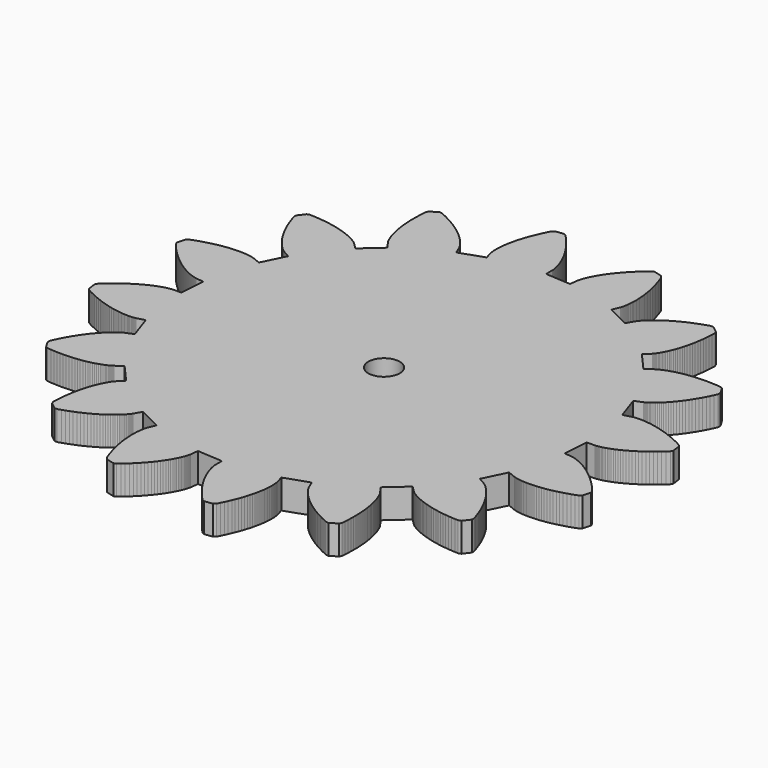
from build123d import *

# Parameters (mm, degrees)
F0_R     = 3.517577
F1_DEPTH = 6.5


with BuildPart() as f1:
    # F0 (on Top) → F1 (new body)
    with BuildSketch(Plane.XY):
        Polygon((44.958305, -5.634939), (45.310095, 5.1e-05), (47.156675, 5.1e-05), (47.185377, 0.001575), (47.236177, 0.004369), (47.310853, 0.008179), (47.407373, 0.018085), (47.524467, 0.031801), (47.664929, 0.051105), (47.826219, 0.077267), (48.009607, 0.110541), (48.214839, 0.153213), (48.439629, 0.204013), (48.686263, 0.265989), (48.952201, 0.339141), (49.237189, 0.424485), (49.543513, 0.523545), (49.866855, 0.636829), (50.210263, 0.763575), (50.571451, 0.906577), (50.950419, 1.066597), (51.344373, 1.242873), (51.756361, 1.438707), (52.183589, 1.652575), (52.626057, 1.886763), (53.083511, 2.141525), (53.553411, 2.417369), (54.037027, 2.714803), (54.533089, 3.035605), (55.040327, 3.379013), (55.556963, 3.746805), (56.084775, 4.139489), (56.622239, 4.555795), (57.166561, 4.999533), (57.719011, 5.469433), (58.277303, 5.965495), (58.840929, 6.489497), (59.117789, 7.005879), (58.862773, 8.899703), (58.459167, 9.325407), (57.776923, 9.680499), (57.105855, 10.011461), (56.450027, 10.318801), (55.806391, 10.601249), (55.177995, 10.861853), (54.566363, 11.100105), (53.969463, 11.317783), (53.389327, 11.515141), (52.825701, 11.692941), (52.281379, 11.851183), (51.755091, 11.993169), (51.246583, 12.117375), (50.758649, 12.225833), (50.290273, 12.319813), (49.840947, 12.398553), (49.412195, 12.464339), (49.005795, 12.517933), (48.619969, 12.560605), (48.256241, 12.592355), (47.912833, 12.615977), (47.591777, 12.629947), (47.294597, 12.636551), (47.017229, 12.636551), (46.763991, 12.631217), (46.533613, 12.621311), (46.325333, 12.607595), (46.139405, 12.591085), (45.976845, 12.573305), (45.836383, 12.555525), (45.719289, 12.537491), (45.624039, 12.520727), (45.551141, 12.505741), (45.501357, 12.494819), (45.472401, 12.487707), (43.692369, 12.000027), (41.860775, 17.339869), (43.566639, 18.045227), (43.592801, 18.057927), (43.639791, 18.080025), (43.706085, 18.113045), (43.791429, 18.158511), (43.894807, 18.216423), (44.017235, 18.288051), (44.156427, 18.373395), (44.313653, 18.475503), (44.486119, 18.592597), (44.674841, 18.726201), (44.877279, 18.877839), (45.094957, 19.047257), (45.326351, 19.234455), (45.571969, 19.442735), (45.828001, 19.671589), (46.096733, 19.919747), (46.375117, 20.191019), (46.663153, 20.483373), (46.960841, 20.797317), (47.266657, 21.134883), (47.579585, 21.497595), (47.897847, 21.881897), (48.222967, 22.292361), (48.552405, 22.726701), (48.884383, 23.187203), (49.219663, 23.673105), (49.557229, 24.184661), (49.894795, 24.722125), (50.232361, 25.287275), (50.568657, 25.878079), (50.901905, 26.495299), (51.232867, 27.140713), (51.557733, 27.813051), (51.879297, 28.513075), (51.936955, 29.096005), (50.976327, 30.748275), (50.440133, 30.986527), (49.674323, 31.054091), (48.928579, 31.103875), (48.203917, 31.135625), (47.502369, 31.150611), (46.821649, 31.150611), (46.164297, 31.136895), (45.530567, 31.109463), (44.918427, 31.069077), (44.330163, 31.018277), (43.766791, 30.956301), (43.226279, 30.886197), (42.708373, 30.805933), (42.216375, 30.719319), (41.747745, 30.626863), (41.302483, 30.527803), (40.881097, 30.425695), (40.485619, 30.319523), (40.111985, 30.210811), (39.763497, 30.100575), (39.438123, 29.990339), (39.136625, 29.881373), (38.857733, 29.772661), (38.603225, 29.668013), (38.371577, 29.565905), (38.162027, 29.467861), (37.974829, 29.375913), (37.809475, 29.290061), (37.666219, 29.211829), (37.543283, 29.140201), (37.441429, 29.079495), (37.359895, 29.026917), (37.298173, 28.985769), (37.255247, 28.956813), (37.231879, 28.938779), (35.773919, 27.805939), (32.039357, 32.039357), (33.344663, 33.344663), (33.364983, 33.366507), (33.399527, 33.403845), (33.448041, 33.460233), (33.508239, 33.534655), (33.582661, 33.628127), (33.668513, 33.740141), (33.764779, 33.873745), (33.869427, 34.026653), (33.985251, 34.201405), (34.107933, 34.397239), (34.237473, 34.614917), (34.374125, 34.854947), (34.515857, 35.116567), (34.661907, 35.403079), (34.812275, 35.711689), (34.964929, 36.044175), (35.118091, 36.401045), (35.272269, 36.781283), (35.426701, 37.184889), (35.579355, 37.614911), (35.731247, 38.068301), (35.878567, 38.546583), (36.020553, 39.049503), (36.158475, 39.577569), (36.290555, 40.130019), (36.413491, 40.706091), (36.529061, 41.308325), (36.635233, 41.933673), (36.731753, 42.584167), (36.815573, 43.259553), (36.887455, 43.958053), (36.946383, 44.680175), (36.989563, 45.427189), (37.018519, 46.196047), (36.848847, 46.756879), (35.328911, 47.914357), (34.742933, 47.930867), (34.008619, 47.699473), (33.301483, 47.459697), (32.619747, 47.211539), (31.964935, 46.958047), (31.336539, 46.697697), (30.734305, 46.433029), (30.159757, 46.164297), (29.610101, 45.894295), (29.086353, 45.621245), (28.588767, 45.348449), (28.116073, 45.076923), (27.668525, 44.805651), (27.246377, 44.536919), (26.848105, 44.270727), (26.476249, 44.010377), (26.126491, 43.754091), (25.801117, 43.504663), (25.497841, 43.260823), (25.216663, 43.026635), (24.959107, 42.800575), (24.722125, 42.582897), (24.507241, 42.377411), (24.311407, 42.181577), (24.136401, 41.998697), (23.979429, 41.829025), (23.841507, 41.672053), (23.721619, 41.528797), (23.619511, 41.401797), (23.532897, 41.288767), (23.462539, 41.194025), (23.407675, 41.115285), (23.366019, 41.053055), (23.338333, 41.009113), (23.323347, 40.984475), (22.409455, 39.380211), (17.339869, 41.860775), (18.045227, 43.566639), (18.056657, 43.594325), (18.072913, 43.642585), (18.096535, 43.712689), (18.125491, 43.805145), (18.157241, 43.919445), (18.192801, 44.056097), (18.231663, 44.215863), (18.270017, 44.397727), (18.309895, 44.603213), (18.348757, 44.830289), (18.385841, 45.081241), (18.418861, 45.355307), (18.449341, 45.652995), (18.475503, 45.972527), (18.496077, 46.314411), (18.510047, 46.680933), (18.515127, 47.068283), (18.512841, 47.479001), (18.500141, 47.912833), (18.476773, 48.367747), (18.442229, 48.844505), (18.395747, 49.342091), (18.336311, 49.861775), (18.260619, 50.401779), (18.170957, 50.962611), (18.064785, 51.542747), (17.940579, 52.143711), (17.798847, 52.762455), (17.638827, 53.400503), (17.458233, 54.055061), (17.257319, 54.728923), (17.035323, 55.418025), (16.790213, 56.124907), (16.522751, 56.845505), (16.150641, 57.298895), (14.302791, 57.788099), (13.755675, 57.577279), (13.165633, 57.084011), (12.603785, 56.590489), (12.070385, 56.101285), (11.561623, 55.616145), (11.080801, 55.135323), (10.626141, 54.659835), (10.197389, 54.192729), (9.792513, 53.731211), (9.413545, 53.279091), (9.057945, 52.836623), (8.725713, 52.404061), (8.415579, 51.983691), (8.129067, 51.572973), (7.863129, 51.176225), (7.618019, 50.791923), (7.393229, 50.421083), (7.187997, 50.065483), (7.002069, 49.725123), (6.832397, 49.401273), (6.681013, 49.093933), (6.544361, 48.803357), (6.424473, 48.529291), (6.318301, 48.274275), (6.225845, 48.038563), (6.147613, 47.820885), (6.079795, 47.623527), (6.023407, 47.445727), (5.977941, 47.288755), (5.940857, 47.152357), (5.913425, 47.036533), (5.892597, 46.942807), (5.877357, 46.869655), (5.869229, 46.818855), (5.863641, 46.789899), (5.635041, 44.958305), (5.1e-05, 45.310095), (5.1e-05, 47.156675), (-0.001473, 47.185377), (-0.004267, 47.236177), (-0.008077, 47.310853), (-0.017983, 47.407373), (-0.031699, 47.524467), (-0.051003, 47.664929), (-0.077165, 47.826219), (-0.109931, 48.009607), (-0.153111, 48.214839), (-0.203911, 48.439629), (-0.265887, 48.686263), (-0.339039, 48.952201), (-0.424383, 49.237189), (-0.523443, 49.543513), (-0.636727, 49.866855), (-0.763473, 50.210263), (-0.906475, 50.571451), (-1.066495, 50.950419), (-1.242771, 51.344373), (-1.438605, 51.756361), (-1.652473, 52.183589), (-1.886661, 52.626057), (-2.141423, 53.083511), (-2.417267, 53.553411), (-2.714701, 54.037027), (-3.035503, 54.533089), (-3.378911, 55.040327), (-3.746703, 55.556963), (-4.139387, 56.084775), (-4.555693, 56.622239), (-4.999431, 57.166561), (-5.469331, 57.719011), (-5.965393, 58.277303), (-6.489395, 58.840929), (-7.005777, 59.117789), (-8.899601, 58.862773), (-9.325305, 58.459167), (-9.680397, 57.776923), (-10.011359, 57.105855), (-10.318699, 56.450027), (-10.601147, 55.806391), (-10.861751, 55.177995), (-11.100003, 54.566363), (-11.317681, 53.969463), (-11.515039, 53.389327), (-11.692839, 52.825701), (-11.851081, 52.281379), (-11.993067, 51.755091), (-12.117273, 51.246583), (-12.225731, 50.758649), (-12.319711, 50.290273), (-12.398451, 49.840947), (-12.464237, 49.412195), (-12.517831, 49.005795), (-12.560503, 48.619969), (-12.592253, 48.256241), (-12.615875, 47.912833), (-12.629845, 47.591777), (-12.636449, 47.294597), (-12.636449, 47.017229), (-12.631115, 46.763991), (-12.621209, 46.533613), (-12.607493, 46.325333), (-12.590983, 46.139405), (-12.573203, 45.976845), (-12.555423, 45.836383), (-12.537389, 45.719289), (-12.520625, 45.624039), (-12.505639, 45.551141), (-12.494717, 45.501357), (-12.487605, 45.472401), (-11.999925, 43.692369), (-17.339767, 41.860775), (-18.045125, 43.566639), (-18.057571, 43.592801), (-18.079923, 43.639791), (-18.112943, 43.706085), (-18.158409, 43.791429), (-18.216321, 43.894807), (-18.287949, 44.017235), (-18.373293, 44.156427), (-18.475401, 44.313653), (-18.592495, 44.486119), (-18.726099, 44.674841), (-18.877737, 44.877279), (-19.047155, 45.094957), (-19.234353, 45.326351), (-19.442633, 45.571969), (-19.671487, 45.828001), (-19.919645, 46.096733), (-20.190917, 46.375117), (-20.483017, 46.663153), (-20.797215, 46.960841), (-21.134781, 47.266657), (-21.497239, 47.579585), (-21.881795, 47.897847), (-22.292259, 48.222967), (-22.726599, 48.552405), (-23.186847, 48.884383), (-23.673003, 49.219663), (-24.184559, 49.557229), (-24.722023, 49.894795), (-25.286919, 50.232361), (-25.878231, 50.568657), (-26.495451, 50.901905), (-27.140357, 51.232867), (-27.812949, 51.557733), (-28.512973, 51.879297), (-29.095903, 51.936955), (-30.748173, 50.976327), (-30.986425, 50.440133), (-31.053989, 49.674323), (-31.103773, 48.928579), (-31.135269, 48.203917), (-31.150509, 47.502369), (-31.150509, 46.821649), (-31.136793, 46.164297), (-31.109107, 45.530567), (-31.069229, 44.918427), (-31.018175, 44.330163), (-30.956199, 43.766791), (-30.885841, 43.226279), (-30.806085, 42.708373), (-30.719217, 42.216375), (-30.626761, 41.747745), (-30.527701, 41.302483), (-30.425593, 40.881097), (-30.319421, 40.485619), (-30.210709, 40.111985), (-30.100473, 39.763497), (-29.990237, 39.438123), (-29.881271, 39.136625), (-29.772559, 38.857733), (-29.667657, 38.603225), (-29.565803, 38.371577), (-29.468013, 38.162027), (-29.375557, 37.974829), (-29.290213, 37.809475), (-29.211727, 37.666219), (-29.139845, 37.543283), (-29.079393, 37.441429), (-29.026815, 37.359895), (-28.985667, 37.298173), (-28.956711, 37.255247), (-28.938677, 37.231879), (-27.806091, 35.773919), (-32.039255, 32.039357), (-33.344307, 33.344663), (-33.366405, 33.364983), (-33.403489, 33.399527), (-33.460131, 33.448041), (-33.534553, 33.508239), (-33.628279, 33.582661), (-33.739785, 33.668513), (-33.873389, 33.764779), (-34.026551, 33.869427), (-34.201481, 33.985251), (-34.397163, 34.107933), (-34.614891, 34.237473), (-34.854667, 34.374125), (-35.116516, 34.515857), (-35.40313, 34.661907), (-35.711816, 34.812275), (-36.043921, 34.964929), (-36.400842, 35.118091), (-36.781156, 35.272269), (-37.184914, 35.426701), (-37.614885, 35.579355), (-38.068275, 35.731247), (-38.54643, 35.878567), (-39.049427, 36.020553), (-39.577213, 36.158475), (-40.12979, 36.290555), (-40.705811, 36.413491), (-41.307995, 36.529061), (-41.933647, 36.635233), (-42.584065, 36.731753), (-43.259324, 36.815573), (-43.958002, 36.887455), (-44.680073, 36.946383), (-45.42696, 36.989563), (-46.19592, 37.018519), (-46.756803, 36.848847), (-47.914331, 35.328911), (-47.930867, 34.742933), (-47.699346, 34.008619), (-47.45957, 33.301483), (-47.211539, 32.619747), (-46.957996, 31.964935), (-46.697544, 31.336539), (-46.432953, 30.734305), (-46.164246, 30.159757), (-45.894117, 29.610101), (-45.62127, 29.086353), (-45.348449, 28.588767), (-45.076948, 28.116073), (-44.805473, 27.668525), (-44.536766, 27.246377), (-44.270803, 26.848105), (-44.010351, 26.476249), (-43.754015, 26.126491), (-43.504612, 25.801117), (-43.260696, 25.497841), (-43.026432, 25.216663), (-42.800422, 24.959107), (-42.582694, 24.722125), (-42.377385, 24.507241), (-42.181704, 24.311407), (-41.998417, 24.136401), (-41.828923, 23.979429), (-41.671824, 23.841507), (-41.528492, 23.721619), (-41.401746, 23.619511), (-41.288741, 23.532897), (-41.193644, 23.462539), (-41.115107, 23.407675), (-41.05308, 23.366019), (-41.008986, 23.338333), (-40.984195, 23.323347), (-39.380135, 22.409455), (-41.860622, 17.339869), (-43.566639, 18.045227), (-43.594172, 18.056657), (-43.642407, 18.072913), (-43.712714, 18.096535), (-43.805043, 18.125491), (-43.919419, 18.157241), (-44.055817, 18.192801), (-44.21566, 18.231663), (-44.3976, 18.270017), (-44.602908, 18.309895), (-44.830289, 18.348757), (-45.081114, 18.385841), (-45.355307, 18.418861), (-45.652995, 18.449341), (-45.972679, 18.475503), (-46.314462, 18.496077), (-46.680984, 18.510047), (-47.068232, 18.515127), (-47.478874, 18.512841), (-47.91296, 18.500141), (-48.367721, 18.476773), (-48.844505, 18.442229), (-49.341989, 18.395747), (-49.861495, 18.336311), (-50.401703, 18.260619), (-50.962535, 18.170957), (-51.542721, 18.064785), (-52.143533, 17.940579), (-52.762277, 17.798847), (-53.4003, 17.638827), (-54.054883, 17.458233), (-54.72872, 17.257319), (-55.417745, 17.035323), (-56.124678, 16.790213), (-56.845403, 16.522751), (-57.298768, 16.150641), (-57.787972, 14.302791), (-57.577152, 13.755675), (-57.083808, 13.165633), (-56.590463, 12.603785), (-56.101259, 12.070385), (-55.61617, 11.561623), (-55.135272, 11.080801), (-54.659835, 10.626141), (-54.192678, 10.197389), (-53.731033, 9.792513), (-53.279015, 9.413545), (-52.836674, 9.057945), (-52.403985, 8.725713), (-51.983691, 8.415579), (-51.573024, 8.129067), (-51.176149, 7.863129), (-50.791694, 7.618019), (-50.421007, 7.393229), (-50.065457, 7.187997), (-49.725072, 7.002069), (-49.401247, 6.832397), (-49.093958, 6.681013), (-48.803154, 6.544361), (-48.528935, 6.424473), (-48.273995, 6.318301), (-48.03836, 6.225845), (-47.820631, 6.147613), (-47.623578, 6.079795), (-47.445803, 6.023407), (-47.288729, 5.977941), (-47.152306, 5.940857), (-47.036507, 5.913425), (-46.942807, 5.892597), (-46.869782, 5.877357), (-46.818779, 5.869229), (-46.789848, 5.863641), (-44.958432, 5.635041), (-45.309841, 5.1e-05), (-47.156421, 5.1e-05), (-47.185351, -0.001473), (-47.236329, -0.004267), (-47.310777, -0.008077), (-47.40722, -0.017983), (-47.52434, -0.031699), (-47.664929, -0.051003), (-47.826143, -0.077165), (-48.009404, -0.109931), (-48.214763, -0.153111), (-48.439375, -0.203911), (-48.686034, -0.265887), (-48.951998, -0.339039), (-49.23724, -0.424383), (-49.543183, -0.523443), (-49.867033, -0.636727), (-50.210136, -0.763473), (-50.571197, -0.906475), (-50.950165, -1.066495), (-51.344297, -1.242771), (-51.756285, -1.438605), (-52.183513, -1.652473), (-52.625854, -1.886661), (-53.083384, -2.141423), (-53.553284, -2.417267), (-54.036976, -2.714701), (-54.533038, -3.035503), (-55.040149, -3.378911), (-55.556937, -3.746703), (-56.084724, -4.139387), (-56.622163, -4.555693), (-57.166485, -4.999431), (-57.719087, -5.469331), (-58.277176, -5.965393), (-58.840802, -6.489395), (-59.117789, -7.005777), (-58.862849, -8.899601), (-58.459091, -9.325305), (-57.776948, -9.680397), (-57.105855, -10.011359), (-56.4499, -10.318699), (-55.806365, -10.601147), (-55.177995, -10.861751), (-54.566134, -11.100003), (-53.969437, -11.317681), (-53.389276, -11.515039), (-52.825675, -11.692839), (-52.281328, -11.851081), (-51.754913, -11.993067), (-51.24643, -12.117273), (-50.758598, -12.225731), (-50.29007, -12.319711), (-49.84082, -12.398451), (-49.412271, -12.464237), (-49.005769, -12.517831), (-48.619893, -12.560503), (-48.256114, -12.592253), (-47.91296, -12.615875), (-47.591853, -12.629845), (-47.294216, -12.636449), (-47.017229, -12.636449), (-46.763686, -12.631115), (-46.533537, -12.621209), (-46.32546, -12.607493), (-46.13943, -12.590983), (-45.976794, -12.573203), (-45.836256, -12.555423), (-45.719136, -12.537389), (-45.624039, -12.520625), (-45.551014, -12.505639), (-45.501408, -12.494717), (-45.472452, -12.487605), (-43.692039, -11.999925), (-41.860622, -17.339767), (-43.566639, -18.045125), (-43.592801, -18.057571), (-43.639664, -18.079923), (-43.705805, -18.112943), (-43.791251, -18.158409), (-43.894604, -18.216321), (-44.017235, -18.287949), (-44.156427, -18.373293), (-44.313526, -18.475401), (-44.485789, -18.592495), (-44.674561, -18.726099), (-44.877126, -18.877737), (-45.094855, -19.047155), (-45.326402, -19.234353), (-45.571664, -19.442633), (-45.827975, -19.671487), (-46.096707, -19.919645), (-46.375066, -20.190917), (-46.663077, -20.483017), (-46.960739, -20.797215), (-47.266657, -21.134781), (-47.579483, -21.497239), (-47.897796, -21.881795), (-48.223018, -22.292259), (-48.552379, -22.726599), (-48.884459, -23.186847), (-49.219333, -23.673003), (-49.556975, -24.184559), (-49.894592, -24.722023), (-50.232183, -25.286919), (-50.568428, -25.878231), (-50.90193, -26.495451), (-51.232664, -27.140357), (-51.55786, -27.812949), (-51.878967, -28.512973), (-51.936853, -29.095903), (-50.976327, -30.748173), (-50.440285, -30.986425), (-49.674094, -31.053989), (-48.928579, -31.103773), (-48.203714, -31.135269), (-47.502293, -31.150509), (-46.821573, -31.150509), (-46.164246, -31.136793), (-45.530338, -31.109107), (-44.918478, -31.069229), (-44.330087, -31.018175), (-43.766435, -30.956199), (-43.226228, -30.885841), (-42.708119, -30.806085), (-42.216172, -30.719217), (-41.747592, -30.626761), (-41.302508, -30.527701), (-40.880817, -30.425593), (-40.485314, -30.319421), (-40.111883, -30.210709), (-39.763217, -30.100473), (-39.438047, -29.990237), (-39.136244, -29.881271), (-38.85786, -29.772559), (-38.602945, -29.667657), (-38.371424, -29.565803), (-38.161976, -29.468013), (-37.974549, -29.375557), (-37.809195, -29.290213), (-37.665863, -29.211727), (-37.543232, -29.139845), (-37.441251, -29.079393), (-37.35992, -29.026815), (-37.297944, -28.985667), (-37.255221, -28.956711), (-37.231803, -28.938677), (-35.773792, -27.806091), (-32.039255, -32.039255), (-33.344307, -33.344307), (-33.364881, -33.366405), (-33.399425, -33.403489), (-33.447685, -33.460131), (-33.508391, -33.534553), (-33.582813, -33.628279), (-33.668157, -33.739785), (-33.764677, -33.873389), (-33.869325, -34.026551), (-33.985149, -34.201481), (-34.107831, -34.397163), (-34.23732, -34.614891), (-34.373744, -34.854667), (-34.515654, -35.116516), (-34.661729, -35.40313), (-34.811945, -35.711816), (-34.964929, -36.043921), (-35.117888, -36.400842), (-35.272218, -36.781156), (-35.426574, -37.184914), (-35.579533, -37.614885), (-35.73112, -38.068275), (-35.878541, -38.54643), (-36.020502, -39.049427), (-36.158297, -39.577213), (-36.29058, -40.12979), (-36.413211, -40.705811), (-36.528985, -41.307995), (-36.635106, -41.933647), (-36.73155, -42.584065), (-36.815624, -43.259324), (-36.887277, -43.958002), (-36.946535, -44.680073), (-36.989258, -45.42696), (-37.018189, -46.19592), (-36.848694, -46.756803), (-35.328708, -47.914331), (-34.74306, -47.930867), (-34.008517, -47.699346), (-33.301635, -47.45957), (-32.619391, -47.211539), (-31.964833, -46.957996), (-31.336437, -46.697544), (-30.734457, -46.432953), (-30.159655, -46.164246), (-29.609745, -45.894117), (-29.086251, -45.62127), (-28.588665, -45.348449), (-28.115971, -45.076948), (-27.668169, -44.805473), (-27.246529, -44.536766), (-26.848257, -44.270803), (-26.476147, -44.010351), (-26.126135, -43.754015), (-25.801015, -43.504612), (-25.497739, -43.260696), (-25.216561, -43.026432), (-24.959005, -42.800422), (-24.722023, -42.582694), (-24.506885, -42.377385), (-24.311305, -42.181704), (-24.136299, -41.998417), (-23.979327, -41.828923), (-23.841405, -41.671824), (-23.721517, -41.528492), (-23.619409, -41.401746), (-23.532795, -41.288741), (-23.462437, -41.193644), (-23.407573, -41.115107), (-23.365917, -41.05308), (-23.338231, -41.008986), (-23.323245, -40.984195), (-22.409353, -39.380135), (-17.339767, -41.860622), (-18.045125, -43.566639), (-18.056555, -43.594172), (-18.072811, -43.642407), (-18.096433, -43.712714), (-18.125389, -43.805043), (-18.157139, -43.919419), (-18.192699, -44.055817), (-18.231561, -44.21566), (-18.269915, -44.3976), (-18.309793, -44.602908), (-18.348655, -44.830289), (-18.385739, -45.081114), (-18.418759, -45.355307), (-18.449239, -45.652995), (-18.475401, -45.972679), (-18.495975, -46.314462), (-18.509945, -46.680984), (-18.515025, -47.068232), (-18.512739, -47.478874), (-18.500039, -47.91296), (-18.476671, -48.367721), (-18.442127, -48.844505), (-18.395645, -49.341989), (-18.336209, -49.861495), (-18.260517, -50.401703), (-18.170855, -50.962535), (-18.064683, -51.542721), (-17.940477, -52.143533), (-17.798745, -52.762277), (-17.638725, -53.4003), (-17.458131, -54.054883), (-17.257217, -54.72872), (-17.035221, -55.417745), (-16.790111, -56.124678), (-16.522649, -56.845403), (-16.150539, -57.298768), (-14.302689, -57.787972), (-13.755573, -57.577152), (-13.165531, -57.083808), (-12.603683, -56.590463), (-12.070283, -56.101259), (-11.561521, -55.61617), (-11.080699, -55.135272), (-10.626039, -54.659835), (-10.197287, -54.192678), (-9.792411, -53.731033), (-9.413443, -53.279015), (-9.057843, -52.836674), (-8.725611, -52.403985), (-8.415477, -51.983691), (-8.128965, -51.573024), (-7.863027, -51.176149), (-7.617917, -50.791694), (-7.393127, -50.421007), (-7.187895, -50.065457), (-7.001967, -49.725072), (-6.832295, -49.401247), (-6.680403, -49.093958), (-6.544259, -48.803154), (-6.424371, -48.528935), (-6.318199, -48.273995), (-6.225743, -48.03836), (-6.147511, -47.820631), (-6.079693, -47.623578), (-6.023305, -47.445803), (-5.977839, -47.288729), (-5.940755, -47.152306), (-5.913323, -47.036507), (-5.892495, -46.942807), (-5.877255, -46.869782), (-5.869127, -46.818779), (-5.863539, -46.789848), (-5.634939, -44.958432), (5.1e-05, -45.309841), (5.1e-05, -47.156421), (0.001575, -47.185351), (0.004369, -47.236329), (0.008179, -47.310777), (0.018085, -47.40722), (0.031801, -47.52434), (0.051105, -47.664929), (0.077267, -47.826143), (0.110541, -48.009404), (0.153213, -48.214763), (0.204013, -48.439375), (0.265989, -48.686034), (0.339141, -48.951998), (0.424485, -49.23724), (0.523545, -49.543183), (0.636829, -49.867033), (0.763575, -50.210136), (0.906577, -50.571197), (1.066597, -50.950165), (1.242873, -51.344297), (1.438707, -51.756285), (1.652575, -52.183513), (1.886763, -52.625854), (2.141525, -53.083384), (2.417369, -53.553284), (2.714803, -54.036976), (3.035605, -54.533038), (3.379013, -55.040149), (3.746805, -55.556937), (4.139489, -56.084724), (4.555795, -56.622163), (4.999533, -57.166485), (5.469433, -57.719087), (5.965495, -58.277176), (6.489497, -58.840802), (7.005879, -59.117789), (8.899703, -58.862849), (9.325407, -58.459091), (9.680499, -57.776948), (10.011461, -57.105855), (10.318801, -56.4499), (10.601249, -55.806365), (10.861853, -55.177995), (11.100105, -54.566134), (11.317783, -53.969437), (11.515141, -53.389276), (11.692941, -52.825675), (11.851183, -52.281328), (11.993169, -51.754913), (12.117375, -51.24643), (12.225833, -50.758598), (12.319813, -50.29007), (12.398553, -49.84082), (12.464339, -49.412271), (12.517933, -49.005769), (12.560605, -48.619893), (12.592355, -48.256114), (12.615977, -47.91296), (12.629947, -47.591853), (12.636551, -47.294216), (12.636551, -47.017229), (12.631217, -46.763686), (12.621311, -46.533537), (12.607595, -46.32546), (12.591085, -46.13943), (12.573305, -45.976794), (12.555525, -45.836256), (12.537491, -45.719136), (12.520727, -45.624039), (12.505741, -45.551014), (12.494819, -45.501408), (12.487707, -45.472452), (12.000027, -43.692039), (17.339869, -41.860622), (18.045227, -43.566639), (18.057927, -43.592801), (18.080025, -43.639664), (18.113045, -43.705805), (18.158511, -43.791251), (18.216423, -43.894604), (18.288051, -44.017235), (18.373395, -44.156427), (18.475503, -44.313526), (18.592597, -44.485789), (18.726201, -44.674561), (18.877839, -44.877126), (19.047257, -45.094855), (19.234455, -45.326402), (19.442735, -45.571664), (19.671589, -45.827975), (19.919747, -46.096707), (20.191019, -46.375066), (20.483373, -46.663077), (20.797317, -46.960739), (21.134883, -47.266657), (21.497595, -47.579483), (21.881897, -47.897796), (22.292361, -48.223018), (22.726701, -48.552379), (23.187203, -48.884459), (23.673105, -49.219333), (24.184661, -49.556975), (24.722125, -49.894592), (25.287275, -50.232183), (25.878079, -50.568428), (26.495299, -50.90193), (27.140713, -51.232664), (27.813051, -51.55786), (28.513075, -51.878967), (29.096005, -51.936853), (30.748275, -50.976327), (30.986527, -50.440285), (31.054091, -49.674094), (31.103875, -48.928579), (31.135625, -48.203714), (31.150611, -47.502293), (31.150611, -46.821573), (31.136895, -46.164246), (31.109463, -45.530338), (31.069077, -44.918478), (31.018277, -44.330087), (30.956301, -43.766435), (30.886197, -43.226228), (30.805933, -42.708119), (30.719319, -42.216172), (30.626863, -41.747592), (30.527803, -41.302508), (30.425695, -40.880817), (30.319523, -40.485314), (30.210811, -40.111883), (30.100575, -39.763217), (29.990339, -39.438047), (29.881373, -39.136244), (29.772661, -38.85786), (29.668013, -38.602945), (29.565905, -38.371424), (29.467861, -38.161976), (29.375913, -37.974549), (29.290061, -37.809195), (29.211829, -37.665863), (29.140201, -37.543232), (29.079495, -37.441251), (29.026917, -37.35992), (28.985769, -37.297944), (28.956813, -37.255221), (28.938779, -37.231803), (27.805939, -35.773792), (32.039357, -32.039255), (33.344663, -33.344307), (33.366507, -33.364881), (33.403845, -33.399425), (33.460233, -33.447685), (33.534655, -33.508391), (33.628127, -33.582813), (33.740141, -33.668157), (33.873745, -33.764677), (34.026653, -33.869325), (34.201405, -33.985149), (34.397239, -34.107831), (34.614917, -34.23732), (34.854947, -34.373744), (35.116567, -34.515654), (35.403079, -34.661729), (35.711689, -34.811945), (36.044175, -34.964929), (36.401045, -35.117888), (36.781283, -35.272218), (37.184889, -35.426574), (37.614911, -35.579533), (38.068301, -35.73112), (38.546583, -35.878541), (39.049503, -36.020502), (39.577569, -36.158297), (40.130019, -36.29058), (40.706091, -36.413211), (41.308325, -36.528985), (41.933673, -36.635106), (42.584167, -36.73155), (43.259553, -36.815624), (43.958053, -36.887277), (44.680175, -36.946535), (45.427189, -36.989258), (46.196047, -37.018189), (46.756879, -36.848694), (47.914357, -35.328708), (47.930867, -34.74306), (47.699473, -34.008517), (47.459697, -33.301635), (47.211539, -32.619391), (46.958047, -31.964833), (46.697697, -31.336437), (46.433029, -30.734457), (46.164297, -30.159655), (45.894295, -29.609745), (45.621245, -29.086251), (45.348449, -28.588665), (45.076923, -28.115971), (44.805651, -27.668169), (44.536919, -27.246529), (44.270727, -26.848257), (44.010377, -26.476147), (43.754091, -26.126135), (43.504663, -25.801015), (43.260823, -25.497739), (43.026635, -25.216561), (42.800575, -24.959005), (42.582897, -24.722023), (42.377411, -24.506885), (42.181577, -24.311305), (41.998697, -24.136299), (41.829025, -23.979327), (41.672053, -23.841405), (41.528797, -23.721517), (41.401797, -23.619409), (41.288767, -23.532795), (41.194025, -23.462437), (41.115285, -23.407573), (41.053055, -23.365917), (41.009113, -23.338231), (40.984475, -23.323245), (39.380211, -22.409353), (41.860775, -17.339767), (43.566639, -18.045125), (43.594325, -18.056555), (43.642585, -18.072811), (43.712689, -18.096433), (43.805145, -18.125389), (43.919445, -18.157139), (44.056097, -18.192699), (44.215863, -18.231561), (44.397727, -18.269915), (44.603213, -18.309793), (44.830289, -18.348655), (45.081241, -18.385739), (45.355307, -18.418759), (45.652995, -18.449239), (45.972527, -18.475401), (46.314411, -18.495975), (46.680933, -18.509945), (47.068283, -18.515025), (47.479001, -18.512739), (47.912833, -18.500039), (48.367747, -18.476671), (48.844505, -18.442127), (49.342091, -18.395645), (49.861775, -18.336209), (50.401779, -18.260517), (50.962611, -18.170855), (51.542747, -18.064683), (52.143711, -17.940477), (52.762455, -17.798745), (53.400503, -17.638725), (54.055061, -17.458131), (54.728923, -17.257217), (55.418025, -17.035221), (56.124907, -16.790111), (56.845505, -16.522649), (57.298895, -16.150539), (57.788099, -14.302689), (57.577279, -13.755573), (57.084011, -13.165531), (56.590489, -12.603683), (56.101285, -12.070283), (55.616145, -11.561521), (55.135323, -11.080699), (54.659835, -10.626039), (54.192729, -10.197287), (53.731211, -9.792411), (53.279091, -9.413443), (52.836623, -9.057843), (52.404061, -8.725611), (51.983691, -8.415477), (51.572973, -8.128965), (51.176225, -7.863027), (50.791923, -7.617917), (50.421083, -7.393127), (50.065483, -7.187895), (49.725123, -7.001967), (49.401273, -6.832295), (49.093933, -6.680403), (48.803357, -6.544259), (48.529291, -6.424371), (48.274275, -6.318199), (48.038563, -6.225743), (47.820885, -6.147511), (47.623527, -6.079693), (47.445727, -6.023305), (47.288755, -5.977839), (47.152357, -5.940755), (47.036533, -5.913323), (46.942807, -5.892495), (46.869655, -5.877255), (46.818855, -5.869127), (46.789899, -5.863539), align=None)
        Circle(F0_R, mode=Mode.SUBTRACT)
    extrude(amount=F1_DEPTH)


solid = f1.part
